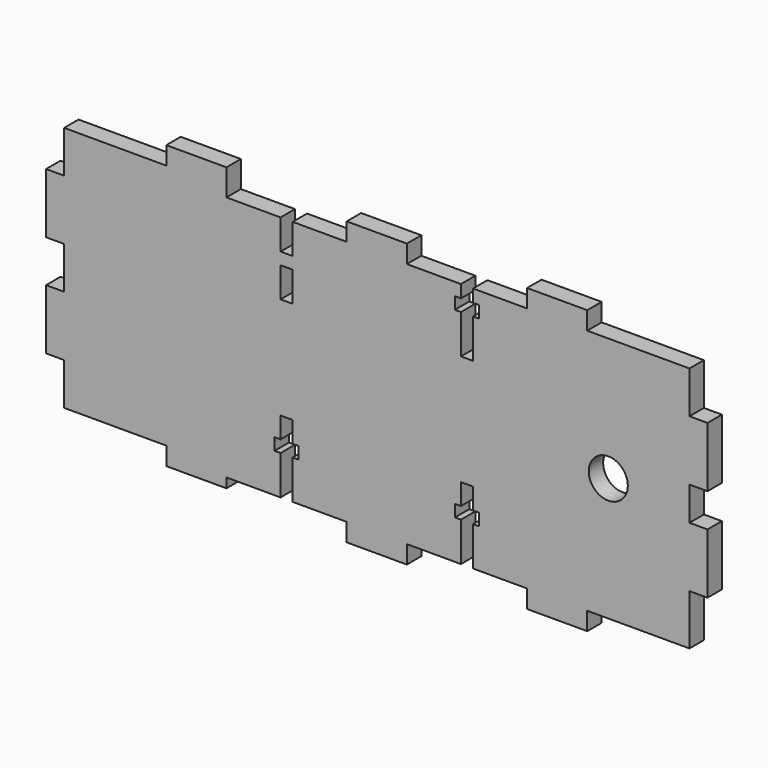
from build123d import *

# Parameters (mm, degrees)
F0_R     = 3.25
F0_W     = 2
F0_H     = 2
F0_W_2   = 1
F1_DEPTH = 1.5


with BuildPart() as f1:
    # F0 (on Front) → F1 (new body, symmetric)
    with BuildSketch(Plane.XZ):
        Polygon((-17, -0.019510895), (-8, -0.019510895), (-8, -3.019510895), (2, -3.019510895), (2, -0.019510895), (11, -0.019510895), (11, 6.480489105), (10, 6.480489105), (10, 8.480489105), (11, 8.480489105), (11, 11.980489105), (13, 11.980489105), (13, 8.480489105), (14, 8.480489105), (14, 6.480489105), (13, 6.480489105), (13, -0.019510895), (22, -0.019510895), (22, -3.019510895), (32, -3.019510895), (32, -0.019510895), (49, -0.019510895), (49, 8.3846153846), (52, 8.3846153846), (52, 18.3846153846), (49, 18.3846153846), (49, 23.980489105), (52, 23.980489105), (52, 33.980489105), (49, 33.980489105), (49, 40.980489105), (32, 40.980489105), (32, 43.980489105), (22, 43.980489105), (22, 40.980489105), (13, 40.980489105), (13, 38.8846153846), (14, 38.8846153846), (14, 36.8846153846), (13, 36.8846153846), (13, 30.3846153846), (11, 30.3846153846), (11, 35.8846153846), (11, 36.8846153846), (10, 36.8846153846), (10, 38.8846153846), (11, 38.8846153846), (11, 40.980489105), (2, 40.980489105), (2, 43.980489105), (-8, 43.980489105), (-8, 40.980489105), (-17, 40.980489105), (-17, 35.980489105), (-16, 35.980489105), (-16, 33.980489105), (-17, 33.980489105), (-17, 28.980489105), (-19, 28.980489105), (-19, 33.980489105), (-20, 33.980489105), (-20, 35.980489105), (-19, 35.980489105), (-19, 40.980489105), (-28, 40.980489105), (-28, 45.3846153846), (-38, 45.3846153846), (-38, 42.3846153846), (-55, 42.3846153846), (-55, 35.3846153846), (-58, 35.3846153846), (-58, 25.3846153846), (-55, 25.3846153846), (-55, 18.3846153846), (-58, 18.3846153846), (-58, 8.3846153846), (-55, 8.3846153846), (-55, 1.3846153846), (-38, 1.3846153846), (-38, -1.6153846154), (-28, -1.6153846154), (-28, -0.019510895), (-19, -0.019510895), (-19, 6.480489105), (-20, 6.480489105), (-20, 8.480489105), (-19, 8.480489105), (-19, 11.980489105), (-17, 11.980489105), (-17, 8.480489105), (-16, 8.480489105), (-16, 6.480489105), (-17, 6.480489105), align=None)
        with Locations((35.5, 20.480489105)):
            Circle(F0_R, mode=Mode.SUBTRACT)
        with Locations((-18, 34.980489105)):
            Rectangle(F0_W, F0_H)
        with Locations((-19.5, 34.980489105)):
            Rectangle(F0_W_2, F0_H)
        with Locations((-16.5, 34.980489105)):
            Rectangle(F0_W_2, F0_H)
    extrude(amount=F1_DEPTH, both=True)


solid = f1.part
